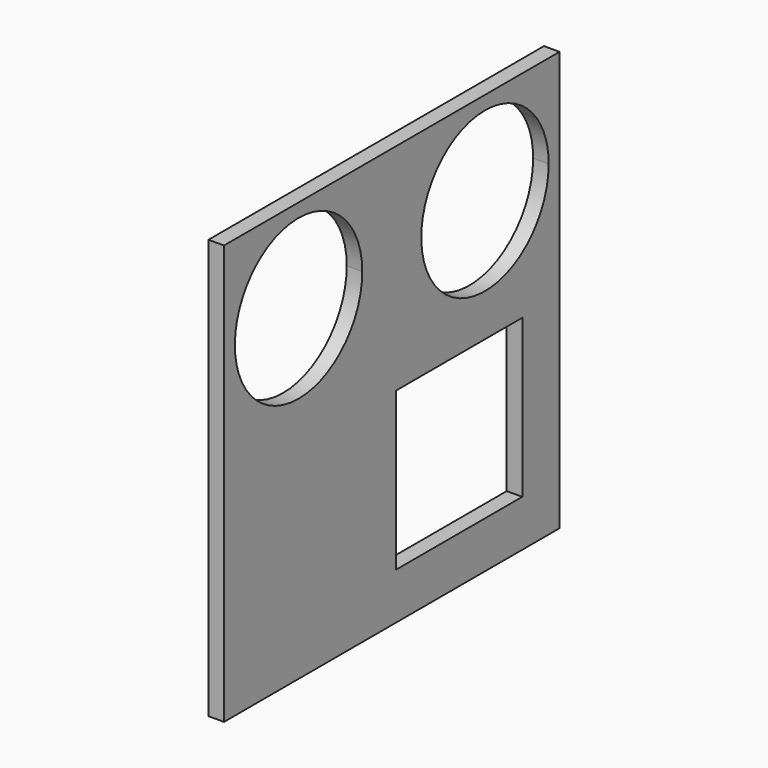
from build123d import *

# Parameters (mm, degrees)
F0_W     = 540
F0_H     = 540
F1_DEPTH = 20
F2_W     = 203
F2_H     = 203
F3_DEPTH = 25


with BuildPart() as f1:
    # F0 (on Right) → F1 (new body)
    with BuildSketch(Plane.YZ):
        with Locations((270, 270)):
            Rectangle(F0_W, F0_H)
    extrude(amount=F1_DEPTH)

    # F2 (on face) → F3 (cut)
    with BuildSketch(Plane.YZ.offset(20)):
        with BuildLine():
            Line((60, 480), (60, 503.103851))
            ThreePointArc((60, 503.103851), (47.521555, 492.478445), (36.896149, 480))
            Line((36.896149, 480), (60, 480))
        make_face()
        with BuildLine():
            ThreePointArc((222.5, 420), (166.670387, 511.258561), (60, 503.103851))
            Line((60, 503.103851), (60, 480))
            Line((60, 480), (36.896149, 480))
            ThreePointArc((36.896149, 480), (88.471399, 322.469506), (222.5, 420))
        make_face()
        with BuildLine():
            ThreePointArc((522.5, 420), (517.530494, 451.528601), (503.103851, 480))
            Line((503.103851, 480), (480, 480))
            Line((480, 480), (480, 503.103851))
            ThreePointArc((480, 503.103851), (328.741439, 373.329613), (522.5, 420))
        make_face()
        with BuildLine():
            Line((480, 480), (503.103851, 480))
            ThreePointArc((503.103851, 480), (492.478445, 492.478445), (480, 503.103851))
            Line((480, 503.103851), (480, 480))
        make_face()
        with Locations((378.5, 161.5)):
            Rectangle(F2_W, F2_H)
    extrude(amount=-F3_DEPTH, mode=Mode.SUBTRACT)


solid = f1.part
